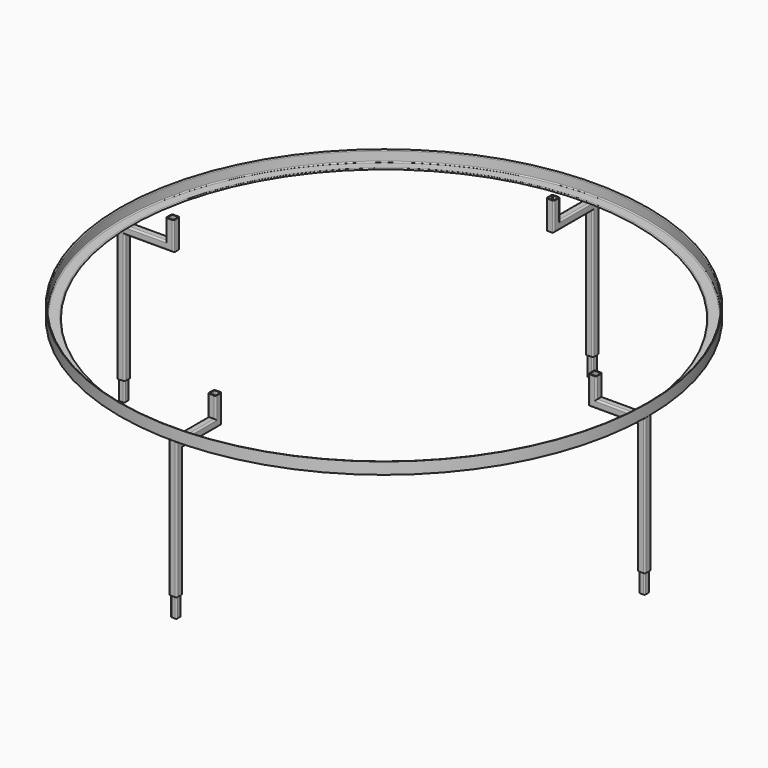
from build123d import *

# Parameters (mm, degrees)
F6_W           = 195
F6_H           = 40
F7_DEPTH       = 1370.001
F9_DEPTH       = 450
F11_DEPTH      = 100
F11_DEPTH_BACK = 100
F12_COUNT      = 4


with BuildPart() as f1:
    # F0 (on Front) → F1 (revolve)
    with BuildSketch(Plane.XZ):
        with BuildLine():
            ThreePointArc((1295, 5), (1291.4644660941, 3.5355339059), (1290, 0))
            Line((1290, 0), (1350, 0))
            Line((1350, 0), (1350, 60))
            ThreePointArc((1350, 60), (1346.4644660941, 58.5355339059), (1345, 55))
            Line((1345, 55), (1345, 10))
            ThreePointArc((1345, 10), (1343.5355339059, 6.4644660941), (1340, 5))
            Line((1340, 5), (1295, 5))
        make_face()
    revolve(axis=Axis((0, 0, 64.8235270174), (0, 0, 1)))


with BuildPart() as f5:
    # F5: sweep along a path in F2
    with BuildLine(Plane.YZ) as f5_path:
        Line((-1505, -270), (-1330, -270))
        Line((-1330, -270), (-1330, -20))
        Line((-1330, -20), (-1080, -20))
        Line((-1080, -20), (-1080, 105))
    # F4 (on plane+point) → F5 (sweep)
    with BuildSketch(Plane.XZ.offset(1505)):
        with BuildLine():
            Line((-12, -290), (12, -290))
            ThreePointArc((12, -290), (17.6568542495, -287.6568542495), (20, -282))
            Line((20, -282), (20, -258))
            ThreePointArc((20, -258), (17.6568542495, -252.3431457505), (12, -250))
            Line((12, -250), (-12, -250))
            ThreePointArc((-12, -250), (-17.6568542495, -252.3431457505), (-20, -258))
            Line((-20, -258), (-20, -282))
            ThreePointArc((-20, -282), (-17.6568542495, -287.6568542495), (-12, -290))
        make_face()
        with BuildLine():
            ThreePointArc((12, -254), (14.8284271247, -255.1715728753), (16, -258))
            Line((16, -258), (16, -282))
            ThreePointArc((16, -282), (14.8284271247, -284.8284271247), (12, -286))
            Line((12, -286), (-12, -286))
            ThreePointArc((-12, -286), (-14.8284271247, -284.8284271247), (-16, -282))
            Line((-16, -282), (-16, -258))
            ThreePointArc((-16, -258), (-14.8284271247, -255.1715728753), (-12, -254))
            Line((-12, -254), (12, -254))
        make_face(mode=Mode.SUBTRACT)
    sweep(path=f5_path.line, transition=Transition.RIGHT)

    # F6 (on face) → F7 (cut, through all)
    with BuildSketch(Plane(origin=(-20, 0, 0), x_dir=(0, -1, 0), z_dir=(-1, 0, 0))):
        with Locations((1407.5, -270)):
            Rectangle(F6_W, F6_H)
    extrude(amount=-F7_DEPTH, mode=Mode.SUBTRACT)

    # F8 (on face) → F9 (join)
    with BuildSketch(Plane(origin=(0, 0, -250), x_dir=(1, 0, 0), z_dir=(0, 0, -1))):
        with BuildLine():
            Line((20, 1318), (20, 1342))
            ThreePointArc((20, 1342), (17.6568542495, 1347.6568542495), (12, 1350))
            Line((12, 1350), (-12, 1350))
            ThreePointArc((-12, 1350), (-17.6568542495, 1347.6568542495), (-20, 1342))
            Line((-20, 1342), (-20, 1318))
            ThreePointArc((-20, 1318), (-17.6568542495, 1312.3431457505), (-12, 1310))
            Line((-12, 1310), (12, 1310))
            ThreePointArc((12, 1310), (17.6568542495, 1312.3431457505), (20, 1318))
        make_face()
        with BuildLine():
            ThreePointArc((-16, 1342), (-14.8284271247, 1344.8284271247), (-12, 1346))
            Line((-12, 1346), (12, 1346))
            ThreePointArc((12, 1346), (14.8284271247, 1344.8284271247), (16, 1342))
            Line((16, 1342), (16, 1318))
            ThreePointArc((16, 1318), (14.8284271247, 1315.1715728753), (12, 1314))
            Line((12, 1314), (-12, 1314))
            ThreePointArc((-12, 1314), (-14.8284271247, 1315.1715728753), (-16, 1318))
            Line((-16, 1318), (-16, 1342))
        make_face(mode=Mode.SUBTRACT)
    extrude(amount=F9_DEPTH)


with BuildPart() as f11:
    # F10 (on face) → F11 (new body, two sides)
    with BuildSketch(Plane(origin=(0, 0, -700), x_dir=(1, 0, 0), z_dir=(0, 0, -1))) as f11_sk:
        with BuildLine():
            Line((-9, 1315), (9, 1315))
            ThreePointArc((9, 1315), (13.2426406871, 1316.7573593129), (15, 1321))
            Line((15, 1321), (15, 1339))
            ThreePointArc((15, 1339), (13.2426406871, 1343.2426406871), (9, 1345))
            Line((9, 1345), (-9, 1345))
            ThreePointArc((-9, 1345), (-13.2426406871, 1343.2426406871), (-15, 1339))
            Line((-15, 1339), (-15, 1321))
            ThreePointArc((-15, 1321), (-13.2426406871, 1316.7573593129), (-9, 1315))
        make_face()
        with BuildLine():
            ThreePointArc((12, 1321), (11.1213203436, 1318.8786796564), (9, 1318))
            Line((9, 1318), (-9, 1318))
            ThreePointArc((-9, 1318), (-11.1213203436, 1318.8786796564), (-12, 1321))
            Line((-12, 1321), (-12, 1339))
            ThreePointArc((-12, 1339), (-11.1213203436, 1341.1213203436), (-9, 1342))
            Line((-9, 1342), (9, 1342))
            ThreePointArc((9, 1342), (11.1213203436, 1341.1213203436), (12, 1339))
            Line((12, 1339), (12, 1321))
        make_face(mode=Mode.SUBTRACT)
    extrude(amount=F11_DEPTH)
    extrude(f11_sk.sketch, amount=-F11_DEPTH_BACK)


with BuildPart() as f12_1:
    # F12: instance of F5
    add(f5.part.rotate(Axis((0, 0, 60), (0, 0, 1)), 1 * 360 / F12_COUNT))


with BuildPart() as f12_2:
    # F12: instance of F5
    add(f5.part.rotate(Axis((0, 0, 60), (0, 0, 1)), 2 * 360 / F12_COUNT))


with BuildPart() as f12_3:
    # F12: instance of F5
    add(f5.part.rotate(Axis((0, 0, 60), (0, 0, 1)), 3 * 360 / F12_COUNT))


with BuildPart() as f12_4:
    # F12: instance of F11
    add(f11.part.rotate(Axis((0, 0, 60), (0, 0, 1)), 1 * 360 / F12_COUNT))


with BuildPart() as f12_5:
    # F12: instance of F11
    add(f11.part.rotate(Axis((0, 0, 60), (0, 0, 1)), 2 * 360 / F12_COUNT))


with BuildPart() as f12_6:
    # F12: instance of F11
    add(f11.part.rotate(Axis((0, 0, 60), (0, 0, 1)), 3 * 360 / F12_COUNT))


solid = Compound([f1.part, f5.part, f11.part, f12_1.part, f12_2.part, f12_3.part, f12_4.part, f12_5.part, f12_6.part])
